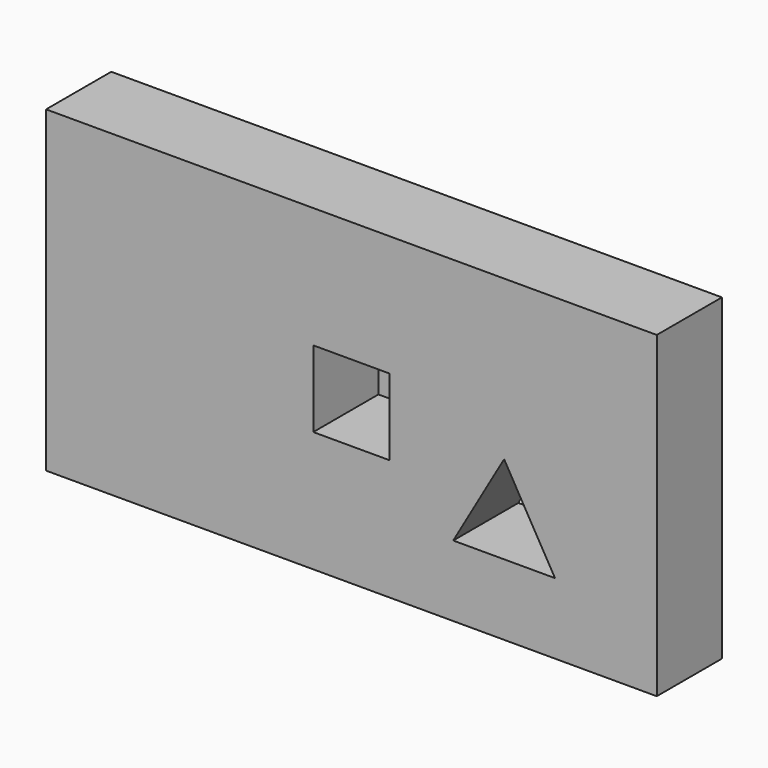
from build123d import *

# Parameters (mm, degrees)
F0_W     = 152.4
F0_H     = 79.375
F0_R     = 12.7
F0_W_2   = 19.05
F0_H_2   = 19.05
F1_DEPTH = 20.32
F2_DEPTH = 31.75
F3_DEPTH = 20.32
F4_DEPTH = 31.75


with BuildPart() as f1:
    # F0 (on Front) → F1 (new body)
    with BuildSketch(Plane.XZ):
        with Locations((-31.75, 0)):
            Rectangle(F0_W, F0_H)
        Polygon((-6.35, -21.997045), (6.35, 0), (19.05, -21.997045), align=None, mode=Mode.SUBTRACT)
        with Locations((-82.55, 0)):
            Circle(F0_R, mode=Mode.SUBTRACT)
        with Locations((-31.75, 0)):
            Rectangle(F0_W_2, F0_H_2, mode=Mode.SUBTRACT)
    extrude(amount=F1_DEPTH)

    # F0 (on Front) → F2 (join)
    with BuildSketch(Plane.XZ):
        with Locations((-31.75, 0)):
            Rectangle(F0_W_2, F0_H_2)
    extrude(amount=-F2_DEPTH)

    # F0 (on Front) → F3 (join)
    with BuildSketch(Plane.XZ):
        with Locations((-82.55, 0)):
            Circle(F0_R)
    extrude(amount=F3_DEPTH)

    # F0 (on Front) → F4 (join)
    with BuildSketch(Plane.XZ):
        with Locations((-82.55, 0)):
            Circle(F0_R)
    extrude(amount=-F4_DEPTH)


solid = f1.part
